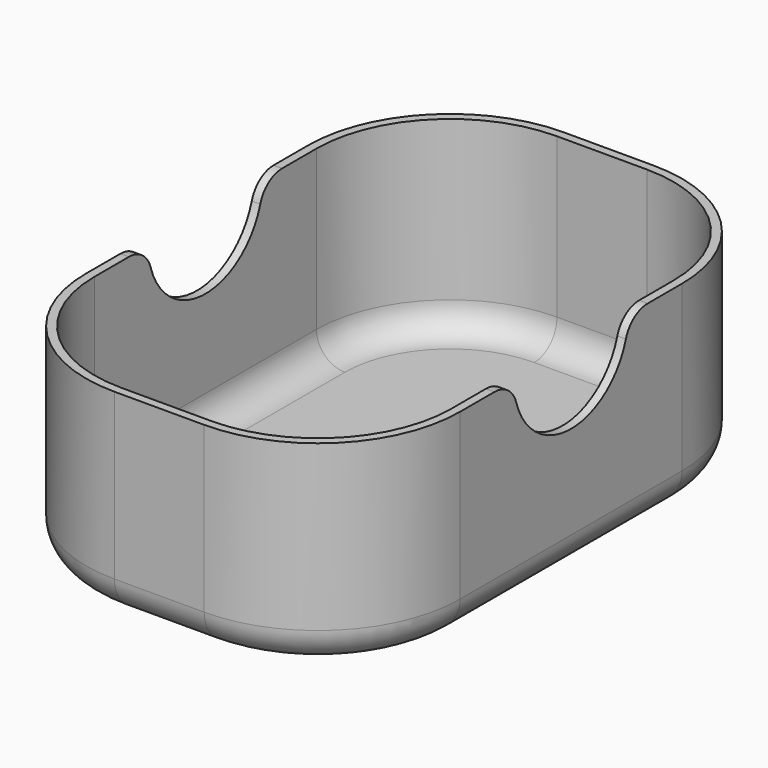
from build123d import *

# Parameters (mm, degrees)
F0_W     = 65.8
F0_H     = 98.8
F1_DEPTH = 35
F2_R     = 25
F4_DEPTH = 33
F6_DEPTH = 65.801
F7_R     = 5
F8_R     = 5
F9_R     = 6


with BuildPart() as f1:
    # F0 (on Top) → F1 (new body)
    with BuildSketch(Plane.XY):
        Rectangle(F0_W, F0_H)
    extrude(amount=F1_DEPTH)

    # F2
    f2_edges = [f1.edges().sort_by_distance(p)[0] for p in [
        (32.9, 49.4, 17.5),
        (-32.9, 49.4, 17.5),
        (32.9, -49.4, 17.5),
        (-32.9, -49.4, 17.5),
    ]]
    fillet(f2_edges, radius=F2_R)

    # F3 (on face) → F4 (cut)
    with BuildSketch(Plane.XY.offset(35)):
        with BuildLine():
            Line((31.4, -24.4), (31.4, 24.4))
            ThreePointArc((31.4, 24.4), (24.5170093579, 41.0170093579), (7.9, 47.9))
            Line((7.9, 47.9), (-7.9, 47.9))
            ThreePointArc((-7.9, 47.9), (-24.5170093579, 41.0170093579), (-31.4, 24.4))
            Line((-31.4, 24.4), (-31.4, -24.4))
            ThreePointArc((-31.4, -24.4), (-24.5170093579, -41.0170093579), (-7.9, -47.9))
            Line((-7.9, -47.9), (7.9, -47.9))
            ThreePointArc((7.9, -47.9), (24.5170093579, -41.0170093579), (31.4, -24.4))
        make_face()
    extrude(amount=-F4_DEPTH, mode=Mode.SUBTRACT)

    # F5 (on face) → F6 (cut, through all)
    with BuildSketch(Plane.YZ.offset(32.9)):
        with BuildLine():
            ThreePointArc((-12.5715859231, 35), (0, 22.4284140769), (12.5715859231, 35))
            Line((12.5715859231, 35), (-12.5715859231, 35))
        make_face()
    extrude(amount=-F6_DEPTH, mode=Mode.SUBTRACT)

    # F7
    f7_edges = [f1.edges().sort_by_distance(p)[0] for p in [
        (32.15, 12.571586, 35),
        (-32.15, 12.571586, 35),
        (32.15, -12.571586, 35),
        (-32.15, -12.571586, 35),
    ]]
    fillet(f7_edges, radius=F7_R)

    # F8
    f8_edges = [f1.edges().sort_by_distance(p)[0] for p in [
        (-24.517009, 41.017009, 2),
    ]]
    fillet(f8_edges, radius=F8_R)

    # F9
    f9_edges = [f1.edges().sort_by_distance(p)[0] for p in [
        (-25.57767, -42.07767, 0),
    ]]
    fillet(f9_edges, radius=F9_R)


solid = f1.part
